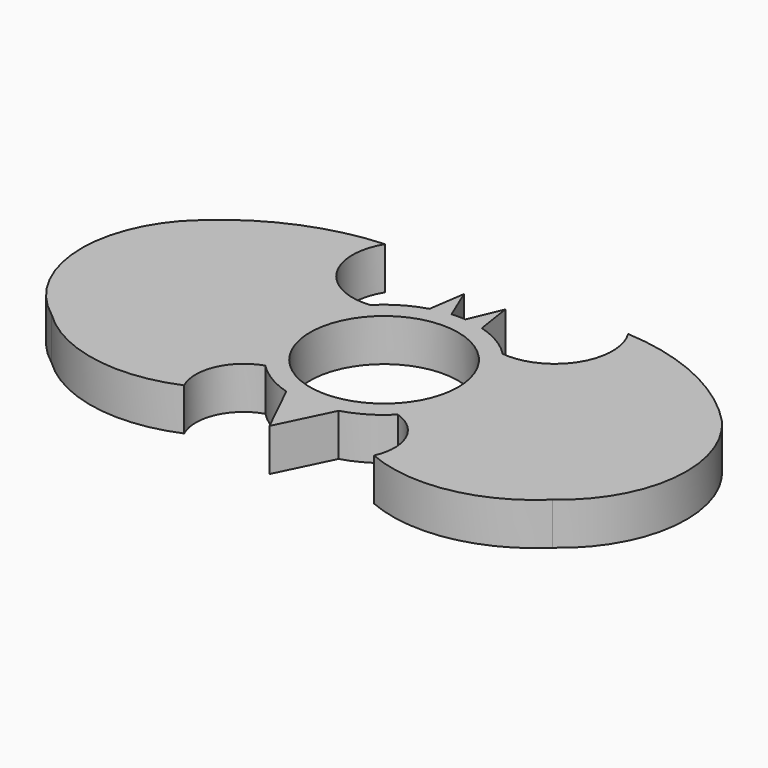
from build123d import *

# Parameters (mm, degrees)
F1_DEPTH = 6.35


with BuildPart() as f1:
    # F0 (on Top) → F1 (new body)
    with BuildSketch(Plane.XY):
        with BuildLine():
            Line((11.1, 0), (13.97, 0))
            ThreePointArc((13.97, 0), (12.919625, 5.314527), (9.926449, 9.829878))
            ThreePointArc((9.926449, 9.829878), (7.149575, 12.001853), (3.91739, 13.40951))
            ThreePointArc((3.91739, 13.40951), (2.493833, 13.745607), (1.042936, 13.931015))
            ThreePointArc((1.042936, 13.931015), (0, 13.97), (-1.042936, 13.931015))
            ThreePointArc((-1.042936, 13.931015), (-2.493833, 13.745607), (-3.91739, 13.40951))
            ThreePointArc((-3.91739, 13.40951), (-7.149575, 12.001853), (-9.926449, 9.829878))
            ThreePointArc((-9.926449, 9.829878), (-12.919625, 5.314527), (-13.97, 0))
            Line((-13.97, 0), (-11.1, 0))
            ThreePointArc((-11.1, 0), (0, 11.1), (11.1, 0))
        make_face()
        with BuildLine():
            ThreePointArc((9.926449, 9.829878), (12.919625, 5.314527), (13.97, 0))
            ThreePointArc((13.97, 0), (12.919624, -5.314528), (9.926448, -9.829879))
            ThreePointArc((9.926448, -9.829879), (14.285668, -13.781384), (14.217987, -19.664632))
            ThreePointArc((14.217987, -19.664632), (26.511231, -21.032111), (37.505711, -15.365079))
            ThreePointArc((37.505711, -15.365079), (45.183888, -2.049099), (40.531412, 12.600958))
            ThreePointArc((40.531412, 12.600958), (30.356432, 19.903507), (18.207102, 22.94509))
            ThreePointArc((18.207102, 22.94509), (18.147506, 13.811002), (9.926449, 9.829878))
        make_face()
        with BuildLine():
            ThreePointArc((9.926448, -9.829879), (12.919624, -5.314528), (13.97, 0))
            Line((13.97, 0), (11.1, 0))
            ThreePointArc((11.1, 0), (0, -11.1), (-11.1, 0))
            Line((-11.1, 0), (-13.97, 0))
            ThreePointArc((-13.97, 0), (-12.919624, -5.314528), (-9.926448, -9.829879))
            ThreePointArc((-9.926448, -9.829879), (-7.149574, -12.001854), (-3.91739, -13.40951))
            ThreePointArc((-3.91739, -13.40951), (0, -13.97), (3.91739, -13.40951))
            ThreePointArc((3.91739, -13.40951), (7.149574, -12.001854), (9.926448, -9.829879))
        make_face()
        with BuildLine():
            ThreePointArc((1.042936, 13.931015), (2.493833, 13.745607), (3.91739, 13.40951))
            Line((3.91739, 13.40951), (3.102583, 18.831426))
            Line((3.102583, 18.831426), (1.042936, 13.931015))
        make_face()
        with BuildLine():
            Line((0, -21.454589), (3.91739, -13.40951))
            ThreePointArc((3.91739, -13.40951), (0, -13.97), (-3.91739, -13.40951))
            Line((-3.91739, -13.40951), (0, -21.454589))
        make_face()
        with BuildLine():
            ThreePointArc((-9.926448, -9.829879), (-12.919624, -5.314528), (-13.97, 0))
            ThreePointArc((-13.97, 0), (-12.919625, 5.314527), (-9.926449, 9.829878))
            ThreePointArc((-9.926449, 9.829878), (-18.147506, 13.811002), (-18.207102, 22.94509))
            ThreePointArc((-18.207102, 22.94509), (-30.356432, 19.903507), (-40.531412, 12.600958))
            ThreePointArc((-40.531412, 12.600958), (-45.183888, -2.049099), (-37.505711, -15.365079))
            ThreePointArc((-37.505711, -15.365079), (-26.511231, -21.032111), (-14.217987, -19.664632))
            ThreePointArc((-14.217987, -19.664632), (-14.285668, -13.781384), (-9.926448, -9.829879))
        make_face()
        with BuildLine():
            ThreePointArc((-3.91739, 13.40951), (-2.493833, 13.745607), (-1.042936, 13.931015))
            Line((-1.042936, 13.931015), (-3.102583, 18.831426))
            Line((-3.102583, 18.831426), (-3.91739, 13.40951))
        make_face()
    extrude(amount=F1_DEPTH)


solid = f1.part
